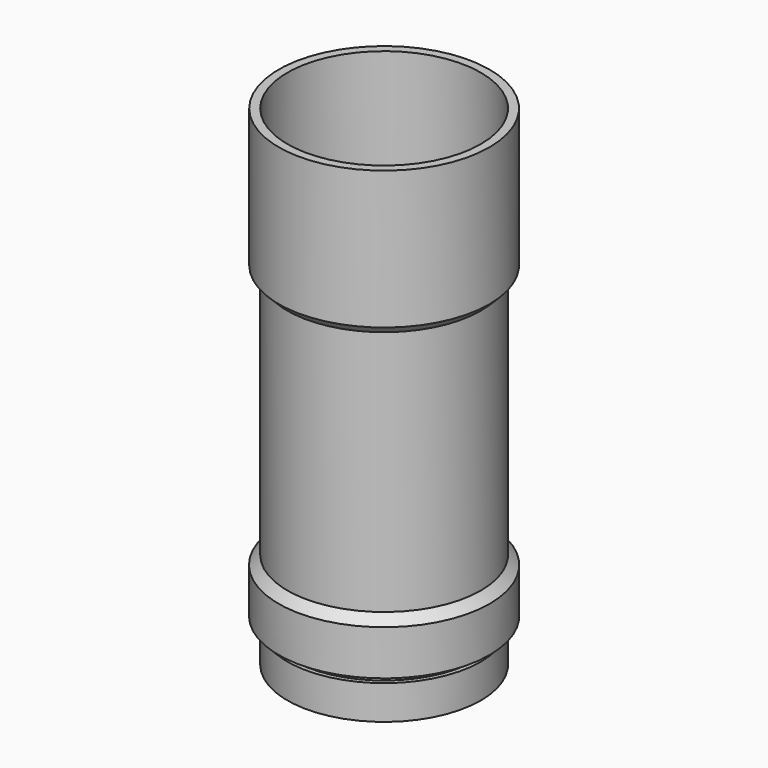
from build123d import *


with BuildPart() as f1:
    # F0 (on Front) → F1 (revolve)
    with BuildSketch(Plane.XZ):
        Polygon((16.0528, 2.1082), (16.0528, 0), (17.4625, 0), (17.4625, 6.1595), (16.67002, 6.1595), (16.67002, 7.747), (19.05, 7.747), (19.05, 15.875), (17.4625, 17.4625), (17.4625, 61.9125), (19.0119, 63.4619), (19.0119, 88.392), (17.4625, 88.392), (17.4625, 66.485159), (14.2875, 64.262), (0, 64.262), (0, 62.738), (4.7625, 62.738), (4.7625, 61.30925), (12.35075, 61.30925), (13.97, 59.69), (13.97, 11.1125), (15.5575, 2.1082), align=None)
    revolve(axis=Axis((0, 0, 63.5), (0, 0, -1)))


solid = f1.part
